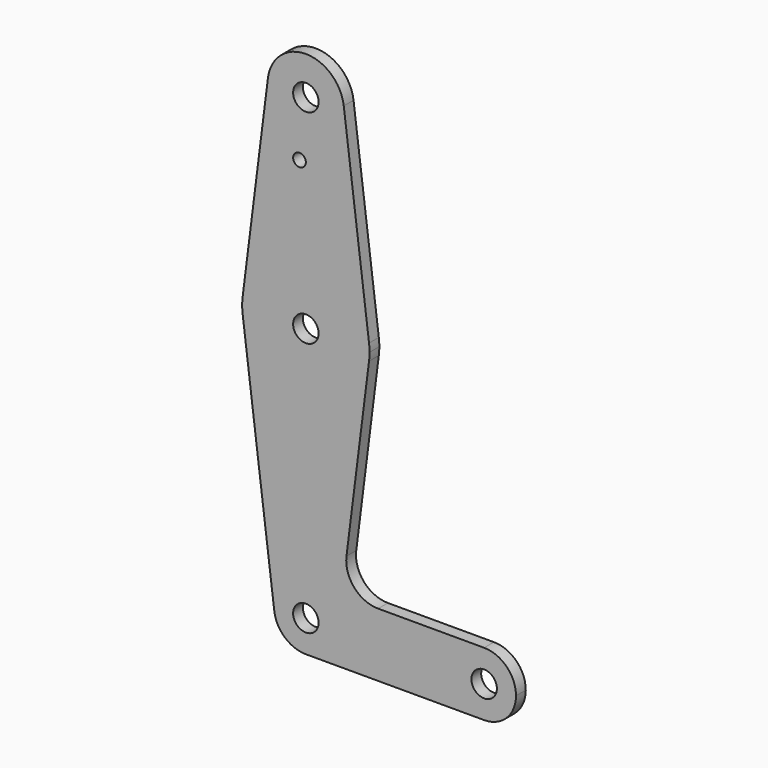
from build123d import *

# Parameters (mm, degrees)
F0_R     = 3.175
F0_R_2   = 1.5875
F1_DEPTH = 3.048


with BuildPart() as f1:
    # F0 (on Front) → F1 (new body)
    with BuildSketch(Plane.XZ):
        with BuildLine():
            ThreePointArc((-9.450293, 115.490625), (-0.596483, 104.793695), (9.525, 114.3))
            ThreePointArc((9.525, 114.3), (9.506305, 114.896483), (9.450293, 115.490625))
            ThreePointArc((9.450293, 115.490625), (0, 123.825), (-9.450293, 115.490625))
        make_face()
        with Locations((0, 114.3)):
            Circle(F0_R, mode=Mode.SUBTRACT)
        with BuildLine():
            ThreePointArc((9.450293, 115.490625), (9.506305, 114.896483), (9.525, 114.3))
            ThreePointArc((9.525, 114.3), (-0.596483, 104.793695), (-9.450293, 115.490625))
            Line((-9.450293, 115.490625), (-15.750488, 65.484375))
            ThreePointArc((-15.750488, 65.484375), (0, 79.375), (15.750488, 65.484375))
            Line((15.750488, 65.484375), (9.450293, 115.490625))
        make_face()
        with Locations((-1.5875, 100.0252)):
            Circle(F0_R_2, mode=Mode.SUBTRACT)
        with BuildLine():
            ThreePointArc((15.875, 63.5), (15.843841, 64.494139), (15.750488, 65.484375))
            ThreePointArc((15.750488, 65.484375), (0, 79.375), (-15.750488, 65.484375))
            ThreePointArc((-15.750488, 65.484375), (-15.875, 63.5), (-15.750488, 61.515625))
            ThreePointArc((-15.750488, 61.515625), (0, 47.625), (15.750488, 61.515625))
            ThreePointArc((15.750488, 61.515625), (15.843841, 62.505861), (15.875, 63.5))
        make_face()
        with Locations((0, 63.5)):
            Circle(F0_R, mode=Mode.SUBTRACT)
        with BuildLine():
            ThreePointArc((15.750488, 61.515625), (0, 47.625), (-15.750488, 61.515625))
            Line((-15.750488, 61.515625), (-7.875244, -0.992188))
            ThreePointArc((-7.875244, -0.992188), (-0.497069, 7.921921), (7.9375, 0))
            ThreePointArc((7.9375, 0), (5.61266, -5.61266), (0, -7.9375))
            Line((0, -7.9375), (44.45, -7.9375))
            ThreePointArc((44.45, -7.9375), (36.5125, 0), (44.45, 7.9375))
            Line((44.45, 7.9375), (18.014958, 7.9375))
            ThreePointArc((18.014958, 7.9375), (12.052308, 10.629137), (10.127114, 16.881475))
            Line((10.127114, 16.881475), (15.750488, 61.515625))
        make_face()
        with BuildLine():
            ThreePointArc((7.9375, 0), (-0.497069, 7.921921), (-7.875244, -0.992188))
            ThreePointArc((-7.875244, -0.992188), (-5.250163, -5.953125), (0, -7.9375))
            ThreePointArc((0, -7.9375), (5.61266, -5.61266), (7.9375, 0))
        make_face()
        Circle(F0_R, mode=Mode.SUBTRACT)
        with BuildLine():
            ThreePointArc((44.45, 7.9375), (36.5125, 0), (44.45, -7.9375))
            ThreePointArc((44.45, -7.9375), (50.06266, -5.61266), (52.3875, 0))
            ThreePointArc((52.3875, 0), (50.06266, 5.61266), (44.45, 7.9375))
        make_face()
        with Locations((44.45, 0)):
            Circle(F0_R, mode=Mode.SUBTRACT)
    extrude(amount=F1_DEPTH)


solid = f1.part
